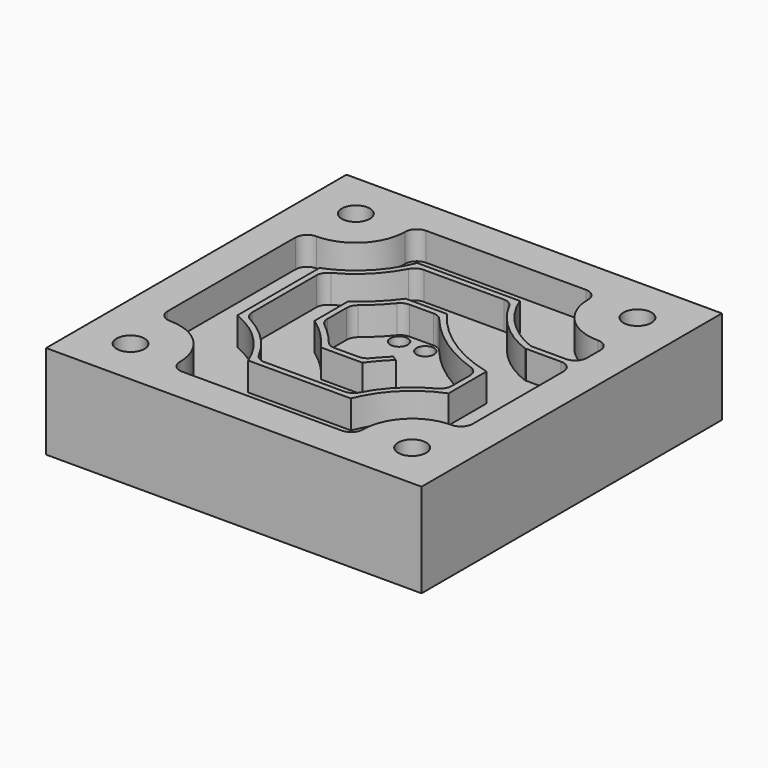
from build123d import *

# Parameters (mm, degrees)
F0_W      = 50.8
F0_H      = 50.8
F1_DEPTH  = 12.7
F5_D      = 6.35
F5_DEPTH  = 20.6375
F5_TIP    = 1.9077324654
F7_D      = 3.7973
F8_R      = 1.190625
F9_DEPTH  = 3.81
F10_R     = 1.190625
F11_DEPTH = 12.701


with BuildPart() as f1:
    # F0 (on Top) → F1 (new body)
    with BuildSketch(Plane.XY):
        Rectangle(F0_W, F0_H)
    extrude(amount=F1_DEPTH)

    # F5
    with Locations(Plane(origin=(-25.4, 0, 0), x_dir=(0, -1, 0), z_dir=(-1, 0, 0))):
        with Locations((0, 4.445)):
            Hole(F5_D / 2, depth=F5_DEPTH)
            with Locations((0, 0, -(F5_DEPTH + F5_TIP / 2))):  # 118° drill point
                Cone(0, F5_D / 2, F5_TIP, mode=Mode.SUBTRACT)

    # F7 (through all)
    with Locations(Plane.XY.offset(12.7)):
        with Locations((-19.05, 19.05), (19.05, 19.05), (19.05, -19.05), (-19.05, -19.05)):
            Hole(F7_D / 2)

    # F8 (on face) → F9 (cut)
    with BuildSketch(Plane.XY.offset(12.7)):
        with BuildLine():
            Line((20.6375, 8.5292954232), (20.6375, 10.80135))
            ThreePointArc((20.6375, 10.80135), (20.1725320151, 11.9238820151), (19.05, 12.38885))
            ThreePointArc((19.05, 12.38885), (14.3398556645, 14.3398556645), (12.38885, 19.05))
            ThreePointArc((12.38885, 19.05), (11.9238820151, 20.1725320151), (10.80135, 20.6375))
            Line((10.80135, 20.6375), (-10.80135, 20.6375))
            ThreePointArc((-10.80135, 20.6375), (-11.9238820151, 20.1725320151), (-12.38885, 19.05))
            ThreePointArc((-12.38885, 19.05), (-14.3398556645, 14.3398556645), (-19.05, 12.38885))
            ThreePointArc((-19.05, 12.38885), (-20.1725320151, 11.9238820151), (-20.6375, 10.80135))
            Line((-20.6375, 10.80135), (-20.6375, -10.80135))
            ThreePointArc((-20.6375, -10.80135), (-20.1725320151, -11.9238820151), (-19.05, -12.38885))
            ThreePointArc((-19.05, -12.38885), (-14.3398556645, -14.3398556645), (-12.38885, -19.05))
            ThreePointArc((-12.38885, -19.05), (-11.9238820151, -20.1725320151), (-10.80135, -20.6375))
            Line((-10.80135, -20.6375), (10.80135, -20.6375))
            ThreePointArc((10.80135, -20.6375), (11.9238820151, -20.1725320151), (12.38885, -19.05))
            ThreePointArc((12.38885, -19.05), (14.3398556645, -14.3398556645), (19.05, -12.38885))
            ThreePointArc((19.05, -12.38885), (20.1725320151, -11.9238820151), (20.6375, -10.80135))
            Line((20.6375, -10.80135), (20.6375, 4.5605454232))
            ThreePointArc((20.6375, 4.5605454232), (20.1725320151, 5.6830774384), (19.05, 6.1480454232))
            Line((19.05, 6.1480454232), (14.2875, 6.1480454232))
            Line((14.2875, 6.1480454232), (14.2875, 6.0926137759))
            ThreePointArc((14.2875, 6.0926137759), (9.9452262, 8.6731816985), (6.821921312, 12.643022896))
            ThreePointArc((6.821921312, 12.643022896), (6.2374933843, 13.2645178717), (5.4157485098, 13.49375))
            Line((5.4157485098, 13.49375), (-5.4157485098, 13.49375))
            ThreePointArc((-5.4157485098, 13.49375), (-6.2374933843, 13.2645178717), (-6.821921312, 12.643022896))
            ThreePointArc((-6.821921312, 12.643022896), (-9.2884615964, 9.2884615964), (-12.643022896, 6.821921312))
            ThreePointArc((-12.643022896, 6.821921312), (-13.2645178717, 6.2374933843), (-13.49375, 5.4157485098))
            Line((-13.49375, 5.4157485098), (-13.49375, -5.4157485098))
            ThreePointArc((-13.49375, -5.4157485098), (-13.2645178717, -6.2374933843), (-12.643022896, -6.821921312))
            ThreePointArc((-12.643022896, -6.821921312), (-9.2884615964, -9.2884615964), (-6.821921312, -12.643022896))
            ThreePointArc((-6.821921312, -12.643022896), (-6.2374933843, -13.2645178717), (-5.4157485098, -13.49375))
            Line((-5.4157485098, -13.49375), (5.4157485098, -13.49375))
            ThreePointArc((5.4157485098, -13.49375), (6.2374933843, -13.2645178717), (6.821921312, -12.643022896))
            ThreePointArc((6.821921312, -12.643022896), (9.2884615964, -9.2884615964), (12.643022896, -6.821921312))
            ThreePointArc((12.643022896, -6.821921312), (13.2645178717, -6.2374933843), (13.49375, -5.4157485098))
            Line((13.49375, -5.4157485098), (13.49375, -2.3239302132))
            ThreePointArc((13.49375, -2.3239302132), (13.1944701574, -1.3962206272), (12.4094727388, -0.8182997389))
            ThreePointArc((12.4094727388, -0.8182997389), (7.1639891354, 1.7998207966), (2.8493973076, 5.7689454776))
            ThreePointArc((2.8493973076, 5.7689454776), (2.3008328233, 6.1974021649), (1.6217068945, 6.35))
            Line((1.6217068945, 6.35), (-1.6217068945, 6.35))
            ThreePointArc((-1.6217068945, 6.35), (-2.3008328233, 6.1974021649), (-2.8493973076, 5.7689454776))
            ThreePointArc((-2.8493973076, 5.7689454776), (-4.2370675283, 4.2370675283), (-5.7689454776, 2.8493973076))
            ThreePointArc((-5.7689454776, 2.8493973076), (-6.1974021649, 2.3008328233), (-6.35, 1.6217068945))
            Line((-6.35, 1.6217068945), (-6.35, -1.6217068945))
            ThreePointArc((-6.35, -1.6217068945), (-6.1974021649, -2.3008328233), (-5.7689454776, -2.8493973076))
            ThreePointArc((-5.7689454776, -2.8493973076), (-4.2370675283, -4.2370675283), (-2.8493973076, -5.7689454776))
            ThreePointArc((-2.8493973076, -5.7689454776), (-2.3008328233, -6.1974021649), (-1.6217068945, -6.35))
            Line((-1.6217068945, -6.35), (1.6217068945, -6.35))
            ThreePointArc((1.6217068945, -6.35), (2.3008328233, -6.1974021649), (2.8493973076, -5.7689454776))
            ThreePointArc((2.8493973076, -5.7689454776), (3.6282714753, -4.8719808812), (4.4567370697, -4.0206083333))
            ThreePointArc((4.4567370697, -4.0206083333), (4.8051043626, -4.2373192983), (5.1566891771, -4.4487703125))
            ThreePointArc((5.1566891771, -4.4487703125), (3.9121206801, -5.7434375699), (2.7877367827, -7.14375))
            Line((2.7877367827, -7.14375), (-2.7877367827, -7.14375))
            ThreePointArc((-2.7877367827, -7.14375), (-4.7983335359, -4.7983335359), (-7.14375, -2.7877367827))
            Line((-7.14375, -2.7877367827), (-7.14375, 2.7877367827))
            ThreePointArc((-7.14375, 2.7877367827), (-4.7983335359, 4.7983335359), (-2.7877367827, 7.14375))
            Line((-2.7877367827, 7.14375), (2.7877367827, 7.14375))
            ThreePointArc((2.7877367827, 7.14375), (7.858589431, 2.2877709273), (14.2875, -0.5341412311))
            Line((14.2875, -0.5341412311), (14.2875, -6.9417954232))
            ThreePointArc((14.2875, -6.9417954232), (9.849727604, -9.849727604), (6.9417954232, -14.2875))
            Line((6.9417954232, -14.2875), (-6.9417954232, -14.2875))
            ThreePointArc((-6.9417954232, -14.2875), (-9.849727604, -9.849727604), (-14.2875, -6.9417954232))
            Line((-14.2875, -6.9417954232), (-14.2875, 6.9417954232))
            ThreePointArc((-14.2875, 6.9417954232), (-9.849727604, 9.849727604), (-6.9417954232, 14.2875))
            Line((-6.9417954232, 14.2875), (6.9417954232, 14.2875))
            ThreePointArc((6.9417954232, 14.2875), (9.849727604, 9.849727604), (14.2875, 6.9417954232))
            Line((14.2875, 6.9417954232), (19.05, 6.9417954232))
            ThreePointArc((19.05, 6.9417954232), (20.1725320151, 7.4067634081), (20.6375, 8.5292954232))
        make_face()
        with Locations((-1.778, -4.7625)):
            Circle(F8_R, mode=Mode.SUBTRACT)
        with Locations((1.778, -4.7625)):
            Circle(F8_R, mode=Mode.SUBTRACT)
        with Locations((-1.778, 4.7625)):
            Circle(F8_R, mode=Mode.SUBTRACT)
        with Locations((1.778, 4.7625)):
            Circle(F8_R, mode=Mode.SUBTRACT)
        with Locations((-1.778, 4.7625)):
            Circle(F8_R)
        with Locations((1.778, 4.7625)):
            Circle(F8_R)
        with Locations((1.778, -4.7625)):
            Circle(F8_R)
        with Locations((-1.778, -4.7625)):
            Circle(F8_R)
    extrude(amount=-F9_DEPTH, mode=Mode.SUBTRACT)

    # F10 (on face) → F11 (cut, through all)
    with BuildSketch(Plane.XY.offset(12.7)):
        with Locations((-1.778, 4.7625)):
            Circle(F10_R)
        with Locations((1.778, 4.7625)):
            Circle(F10_R)
        with Locations((1.778, -4.7625)):
            Circle(F10_R)
        with Locations((-1.778, -4.7625)):
            Circle(F10_R)
    extrude(amount=-F11_DEPTH, mode=Mode.SUBTRACT)


solid = f1.part
